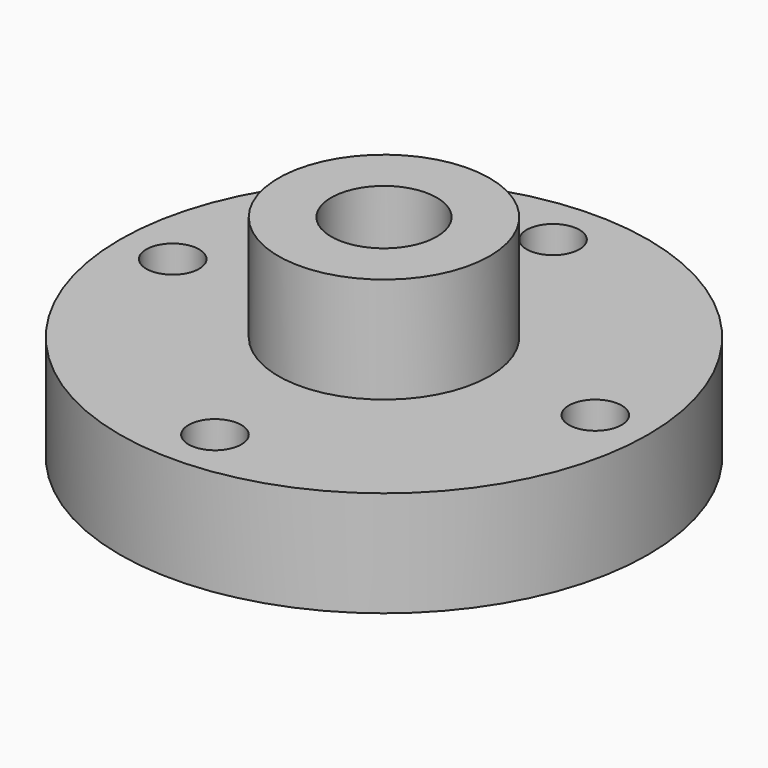
from build123d import *

# Parameters (mm, degrees)
F0_R     = 31.75
F0_R_2   = 12.7
F1_DEPTH = 12.7
F0_R_3   = 6.35
F2_DEPTH = 25.4
F4_D     = 6.35


with BuildPart() as f1:
    # F0 (on Top) → F1 (new body)
    with BuildSketch(Plane.XY):
        Circle(F0_R)
        Circle(F0_R_2, mode=Mode.SUBTRACT)
    extrude(amount=F1_DEPTH)

    # F0 (on Top) → F2 (join)
    with BuildSketch(Plane.XY):
        Circle(F0_R_2)
        Circle(F0_R_3, mode=Mode.SUBTRACT)
    extrude(amount=F2_DEPTH)

    # F4 (through all)
    with Locations(Plane.XY.offset(12.7)):
        with Locations((0, 25.4), (25.4, 0), (0, -25.4), (-25.4, 0)):
            Hole(F4_D / 2)


solid = f1.part
